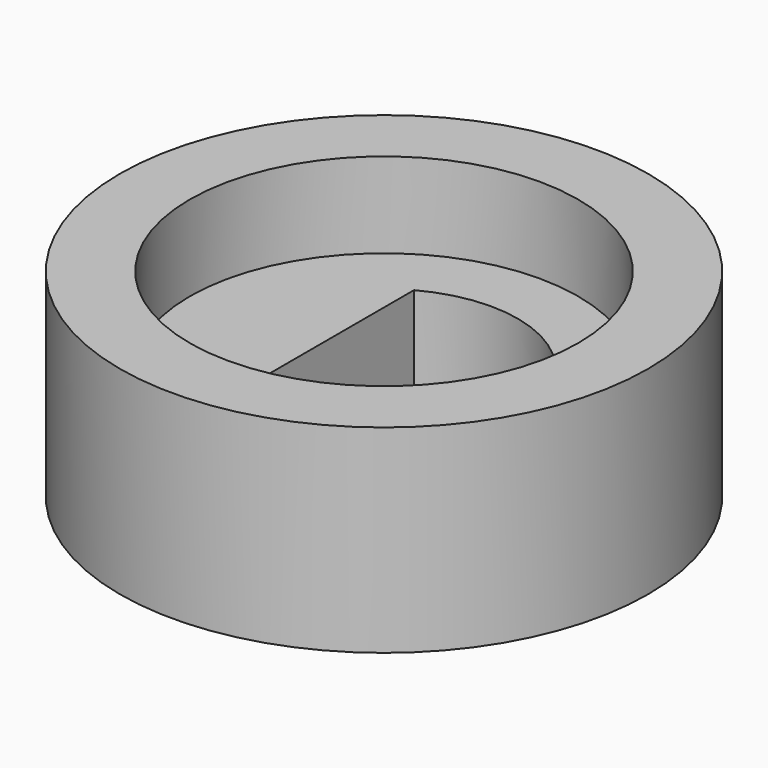
from build123d import *

# Parameters (mm, degrees)
F0_R     = 5.15
F1_DEPTH = 3
F0_R_2   = 7
F2_DEPTH = 5.26


with BuildPart() as f1:
    # F0 (on Top) → F1 (new body)
    with BuildSketch(Plane.XY):
        Circle(F0_R)
        with BuildLine():
            ThreePointArc((-1.7, 3.116488), (3.55, 0), (-1.7, -3.116488))
            Line((-1.7, -3.116488), (-1.7, 3.116488))
        make_face(mode=Mode.SUBTRACT)
    extrude(amount=F1_DEPTH)

    # F0 (on Top) → F2 (join)
    with BuildSketch(Plane.XY):
        Circle(F0_R_2)
        Circle(F0_R, mode=Mode.SUBTRACT)
    extrude(amount=F2_DEPTH)


solid = f1.part
